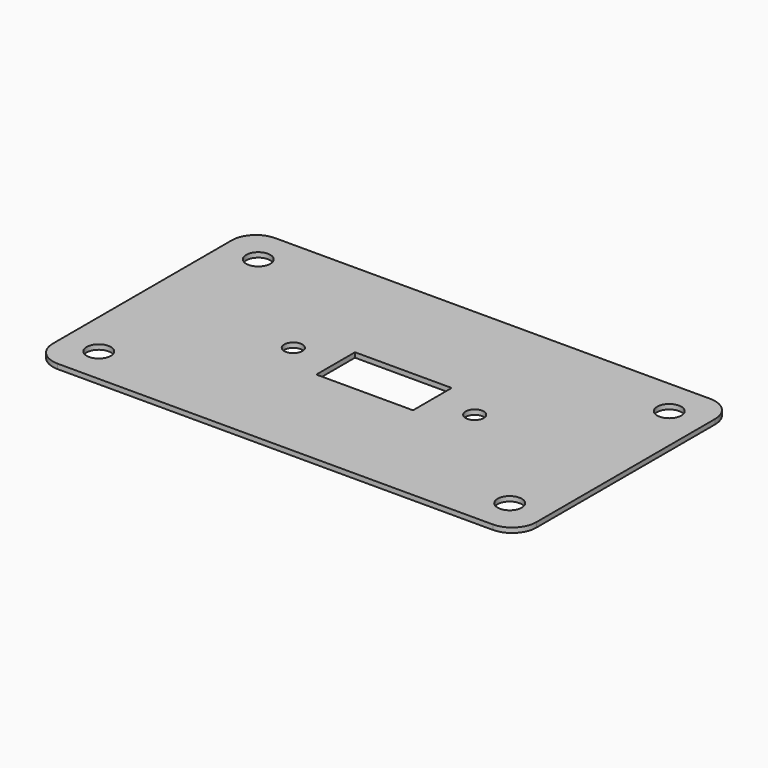
from build123d import *

# Parameters (mm, degrees)
PAD_DEPTH       = 0.8
SKETCH001_W     = 16
SKETCH001_H     = 8
POCKET_DEPTH    = 0.801
SKETCH002_R     = 1.5
POCKET001_DEPTH = 0.801
SKETCH003_R     = 2
POCKET002_DEPTH = 0.801


with BuildPart() as part:
    # Sketch → Pad (new body)
    with BuildSketch(Plane.XY):
        with BuildLine():
            ThreePointArc((4, 45), (1.171573, 43.828427), (0, 41))
            Line((0, 4), (0, 41))
            ThreePointArc((0, 4), (1.171573, 1.171573), (4, 0))
            Line((76, 0), (4, 0))
            ThreePointArc((76, 0), (78.828427, 1.171573), (80, 4))
            Line((80, 41), (80, 4))
            ThreePointArc((80, 41), (78.828427, 43.828427), (76, 45))
            Line((4, 45), (76, 45))
        make_face()
    extrude(amount=PAD_DEPTH)

    # Sketch001 (on Face10 of Pad) → Pocket (cut, through all)
    with BuildSketch(Plane.XY.offset(0.8)):
        with Locations((40, 22.5)):
            Rectangle(SKETCH001_W, SKETCH001_H)
    extrude(amount=-POCKET_DEPTH, mode=Mode.SUBTRACT)

    # Sketch002 (on Face5 of Pocket) → Pocket001 (cut, through all)
    with BuildSketch(Plane.XY.offset(0.8)):
        with Locations((55, 22.5)):
            Circle(SKETCH002_R)
        with Locations((25, 22.5)):
            Circle(SKETCH002_R)
    extrude(amount=-POCKET001_DEPTH, mode=Mode.SUBTRACT)

    # Sketch003 (on Face5 of Pocket001) → Pocket002 (cut, through all)
    with BuildSketch(Plane.XY.offset(0.8)):
        with Locations((6, 39)):
            Circle(SKETCH003_R)
        with Locations((74, 39)):
            Circle(SKETCH003_R)
        with Locations((74, 6)):
            Circle(SKETCH003_R)
        with Locations((6, 6)):
            Circle(SKETCH003_R)
    extrude(amount=-POCKET002_DEPTH, mode=Mode.SUBTRACT)


solid = part.part
